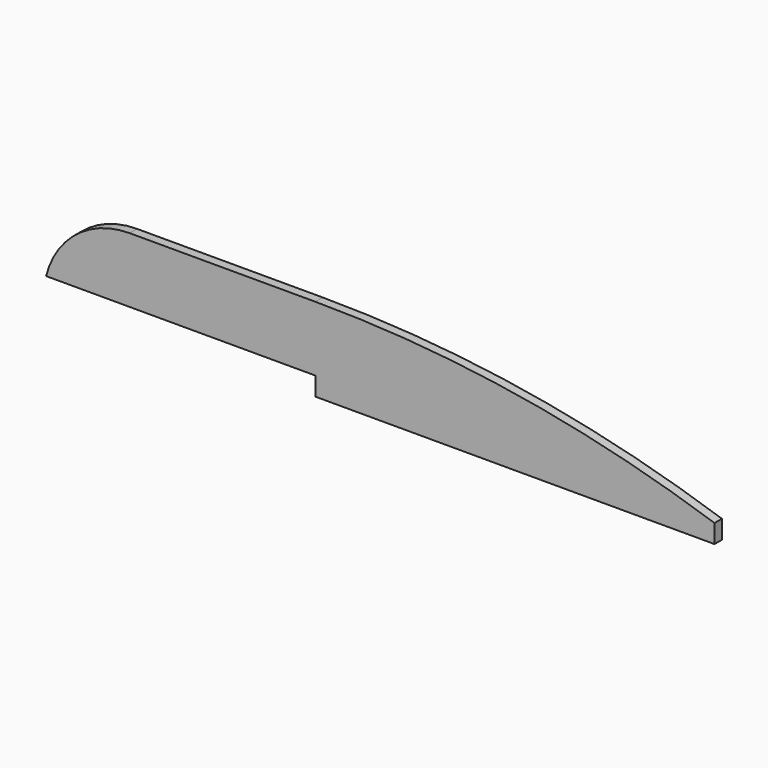
from build123d import *

# Parameters (mm, degrees)
F1_DEPTH = 2.5


with BuildPart() as f1:
    # F0 (on Front) → F1 (new body, symmetric)
    with BuildSketch(Plane.XZ):
        with BuildLine():
            ThreePointArc((-100, 45), (-128.504386, 35.219924), (-145, 10))
            Line((-145, 10), (0, 10))
            Line((0, 10), (0, 0))
            Line((0, 0), (215, 0))
            Line((215, 0), (215, 10))
            ThreePointArc((215, 10), (108.915105, 36.192785), (0, 45))
            Line((0, 45), (-100, 45))
        make_face()
    extrude(amount=F1_DEPTH, both=True)


solid = f1.part
